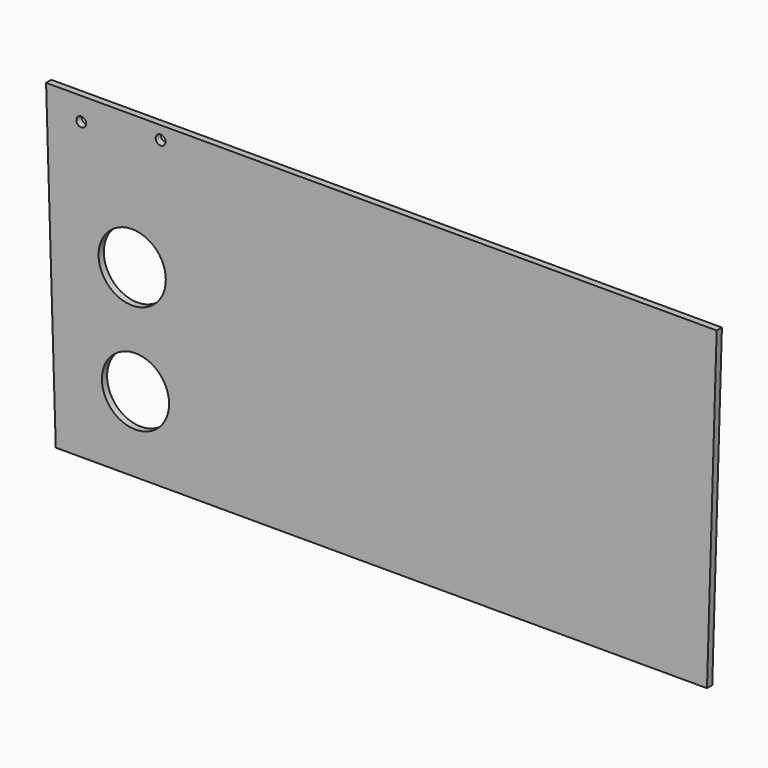
from build123d import *

# Parameters (mm, degrees)
F0_R     = 10.25
F0_R_2   = 1.5
F1_DEPTH = 2


with BuildPart() as f1:
    # F0 (on Front) → F1 (new body)
    with BuildSketch(Plane.XZ):
        Polygon((-99.3, 0), (0, 0), (99.3, 0), (102.25, 97), (0, 97), (-102.25, 97), align=None)
        with Locations((-74.987926, 23)):
            Circle(F0_R, mode=Mode.SUBTRACT)
        with Locations((-75.991534, 56)):
            Circle(F0_R, mode=Mode.SUBTRACT)
        with Locations((-91.532259, 90)):
            Circle(F0_R_2, mode=Mode.SUBTRACT)
        with Locations((-67.332259, 93)):
            Circle(F0_R_2, mode=Mode.SUBTRACT)
    extrude(amount=F1_DEPTH)


solid = f1.part
